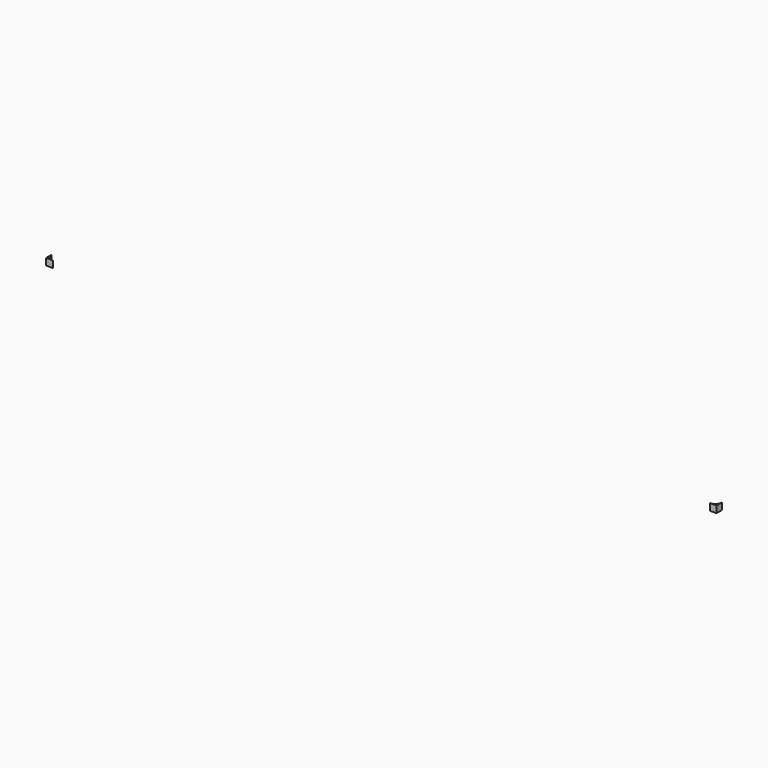
from build123d import *

# Parameters (mm, degrees)
EXTRUDE001_DEPTH = 10


with BuildPart() as extrude001:
    # Sketch001 → Extrude001 (new body)
    with BuildSketch(Plane.XY):
        with BuildLine():
            ThreePointArc((0, -10), (-2.928932, -2.928932), (-10, 0))
            Line((0, 0), (-10, 0))
            Line((0, -10), (0, 0))
        make_face()
    extrude(amount=EXTRUDE001_DEPTH)


with BuildPart() as extrude001_1:
    # Extrude001 placement: moved
    add(extrude001.part.moved(Location((497, 148.42, 0))))


with BuildPart() as compound:
    # Part__Mirroring: instance of Extrude001
    add(extrude001_1.part.mirror(Plane(origin=(0, 0, 0), x_dir=(0, -1, 0), z_dir=(1, 0, 0))))

    # Compound: union Extrude001
    add(extrude001_1.part)


with BuildPart() as part_mirroring001:
    # Part__Mirroring001: instance of Compound
    add(compound.part.mirror(Plane(origin=(0, 0, 0), x_dir=(1, 0, 0), z_dir=(0, 1, 0))))


solid = part_mirroring001.part
